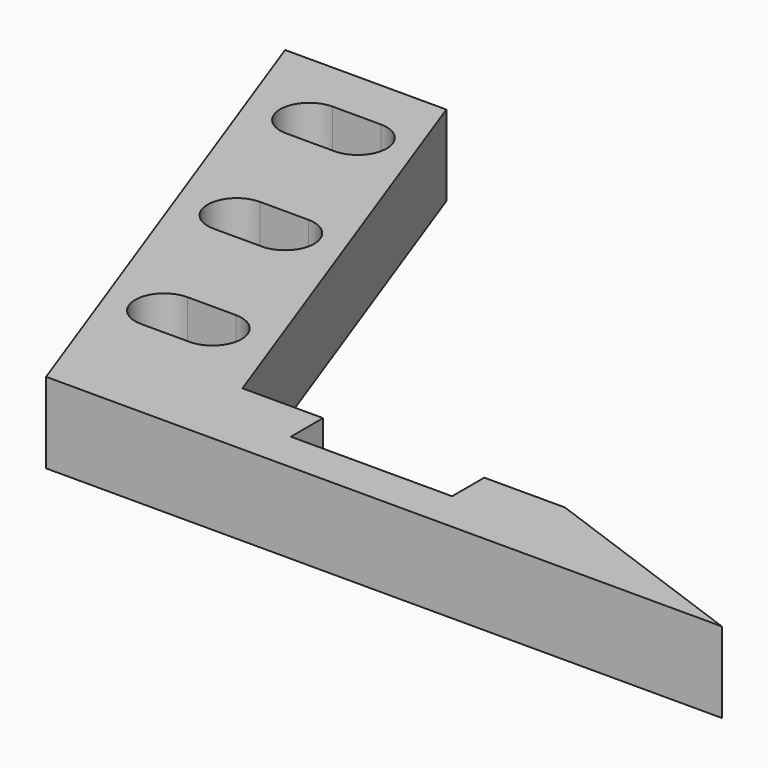
from build123d import *

# Parameters (mm, degrees)
PAD_DEPTH       = 5
POCKET_DEPTH    = 5.001
SKETCH002_W     = 10
SKETCH002_H     = 5
POCKET001_DEPTH = 2.5


with BuildPart() as part:
    # Sketch → Pad (new body)
    with BuildSketch(Plane.XY):
        Polygon((-12.374988, 34), (0, 0), (41.917536, 0), (28.180149, 5), (8.180149, 5), (-2.374988, 34), align=None)
    extrude(amount=PAD_DEPTH)

    # Sketch001 (on Face8 of Pad) → Pocket (cut, through all)
    with BuildSketch(Plane.XY.offset(5)):
        with BuildLine():
            ThreePointArc((-6.874988, 30.8), (-8.674988, 29), (-6.874988, 27.2))
            Line((-6.874988, 27.2), (-3.874988, 27.2))
            ThreePointArc((-3.874988, 27.2), (-2.074988, 29), (-3.874988, 30.8))
            Line((-3.874988, 30.8), (-6.874988, 30.8))
        make_face()
        with BuildLine():
            ThreePointArc((-3.374988, 20.8), (-5.174988, 19), (-3.374988, 17.2))
            Line((-3.374988, 17.2), (-0.374988, 17.2))
            ThreePointArc((-0.374988, 17.2), (1.425012, 19), (-0.374988, 20.8))
            Line((-0.374988, 20.8), (-3.374988, 20.8))
        make_face()
        with BuildLine():
            ThreePointArc((0.125012, 10.8), (-1.674988, 9), (0.125012, 7.2))
            Line((0.125012, 7.2), (3.125012, 7.2))
            ThreePointArc((3.125012, 7.2), (4.925012, 9), (3.125012, 10.8))
            Line((3.125012, 10.8), (0.125012, 10.8))
        make_face()
    extrude(amount=-POCKET_DEPTH, mode=Mode.SUBTRACT)

    # Sketch002 (on Face8 of Pocket) → Pocket001 (cut)
    with BuildSketch(Plane(origin=(0, 5, 0), x_dir=(-1, 0, 0), z_dir=(0, 1, 0))):
        with Locations((-18.180149, 2.5)):
            Rectangle(SKETCH002_W, SKETCH002_H)
    extrude(amount=-POCKET001_DEPTH, mode=Mode.SUBTRACT)


solid = part.part
